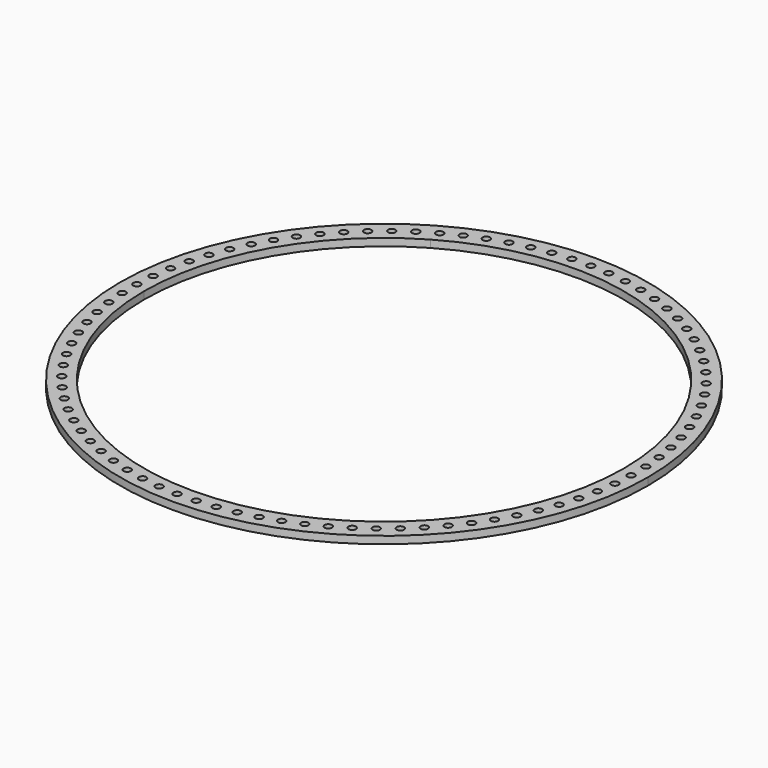
from build123d import *

# Parameters (mm, degrees)
F0_R     = 3
F1_DEPTH = 6


with BuildPart() as f1:
    # F0 (on Top) → F1 (new body)
    with BuildSketch(Plane.XY):
        with BuildLine():
            Line((-101.758, 176.250026), (-106.87925, 185.120291))
            ThreePointArc((-106.87925, 185.120291), (-185.120291, 106.87925), (-213.7585, 0))
            Line((-213.7585, 0), (-194.315, 0))
            ThreePointArc((-194.315, 0), (-168.281726, 97.1575), (-97.1575, 168.281726))
            Line((-97.1575, 168.281726), (-101.758, 176.250026))
        make_face()
        with Locations((-203.742803, 4.588549)):
            Circle(F0_R, mode=Mode.SUBTRACT)
        with Locations((-202.830195, 19.801438)):
            Circle(F0_R, mode=Mode.SUBTRACT)
        with Locations((-200.783277, 34.903588)):
            Circle(F0_R, mode=Mode.SUBTRACT)
        with Locations((-197.613498, 49.810544)):
            Circle(F0_R, mode=Mode.SUBTRACT)
        with Locations((-193.338584, 64.438938)):
            Circle(F0_R, mode=Mode.SUBTRACT)
        with Locations((-187.982442, 78.706965)):
            Circle(F0_R, mode=Mode.SUBTRACT)
        with Locations((-181.575026, 92.534829)):
            Circle(F0_R, mode=Mode.SUBTRACT)
        with Locations((-174.152169, 105.845202)):
            Circle(F0_R, mode=Mode.SUBTRACT)
        with Locations((-165.755382, 118.563645)):
            Circle(F0_R, mode=Mode.SUBTRACT)
        with Locations((-156.431624, 130.619032)):
            Circle(F0_R, mode=Mode.SUBTRACT)
        with Locations((-146.233037, 141.943945)):
            Circle(F0_R, mode=Mode.SUBTRACT)
        with Locations((-135.216656, 152.47505)):
            Circle(F0_R, mode=Mode.SUBTRACT)
        with Locations((-123.444088, 162.153452)):
            Circle(F0_R, mode=Mode.SUBTRACT)
        with BuildLine():
            ThreePointArc((-108.533127, 172.659121), (-108.122488, 171.834935), (-107.981171, 170.925026))
            ThreePointArc((-107.981171, 170.925026), (-110.187559, 168.0319), (-113.561291, 169.394347))
            ThreePointArc((-113.561291, 169.394347), (-112.74697, 173.64458), (-108.533127, 172.659121))
        make_face(mode=Mode.SUBTRACT)
        with BuildLine():
            ThreePointArc((-213.7585, 0), (0, -213.7585), (213.7585, 0))
            ThreePointArc((213.7585, 0), (106.87925, 185.120291), (-106.87925, 185.120291))
            Line((-106.87925, 185.120291), (-101.758, 176.250026))
            Line((-101.758, 176.250026), (-97.1575, 168.281726))
            ThreePointArc((-97.1575, 168.281726), (97.1575, 168.281726), (194.315, 0))
            ThreePointArc((194.315, 0), (0, -194.315), (-194.315, 0))
            Line((-194.315, 0), (-213.7585, 0))
        make_face()
        with Locations((-118.563645, -165.755382)):
            Circle(F0_R, mode=Mode.SUBTRACT)
        with Locations((-162.153452, -123.444088)):
            Circle(F0_R, mode=Mode.SUBTRACT)
        with Locations((-170.925026, -110.981171)):
            Circle(F0_R, mode=Mode.SUBTRACT)
        with Locations((-152.47505, -135.216656)):
            Circle(F0_R, mode=Mode.SUBTRACT)
        with Locations((-141.943945, -146.233037)):
            Circle(F0_R, mode=Mode.SUBTRACT)
        with Locations((-130.619032, -156.431624)):
            Circle(F0_R, mode=Mode.SUBTRACT)
        with Locations((-78.706965, -187.982442)):
            Circle(F0_R, mode=Mode.SUBTRACT)
        with Locations((-64.438938, -193.338584)):
            Circle(F0_R, mode=Mode.SUBTRACT)
        with Locations((-105.845202, -174.152169)):
            Circle(F0_R, mode=Mode.SUBTRACT)
        with Locations((-92.534829, -181.575026)):
            Circle(F0_R, mode=Mode.SUBTRACT)
        with Locations((-34.903588, -200.783277)):
            Circle(F0_R, mode=Mode.SUBTRACT)
        with Locations((-49.810544, -197.613498)):
            Circle(F0_R, mode=Mode.SUBTRACT)
        with Locations((-19.801438, -202.830195)):
            Circle(F0_R, mode=Mode.SUBTRACT)
        with Locations((-4.588549, -203.742803)):
            Circle(F0_R, mode=Mode.SUBTRACT)
        with Locations((-178.740718, -97.897601)):
            Circle(F0_R, mode=Mode.SUBTRACT)
        with Locations((-185.55682, -84.266549)):
            Circle(F0_R, mode=Mode.SUBTRACT)
        with Locations((-191.335213, -70.164244)):
            Circle(F0_R, mode=Mode.SUBTRACT)
        with Locations((-196.043581, -55.669553)):
            Circle(F0_R, mode=Mode.SUBTRACT)
        with Locations((-199.655594, -40.863534)):
            Circle(F0_R, mode=Mode.SUBTRACT)
        with Locations((-202.151052, -25.82899)):
            Circle(F0_R, mode=Mode.SUBTRACT)
        with Locations((-203.516, -10.65)):
            Circle(F0_R, mode=Mode.SUBTRACT)
        with Locations((10.65, -203.516)):
            Circle(F0_R, mode=Mode.SUBTRACT)
        with Locations((25.82899, -202.151052)):
            Circle(F0_R, mode=Mode.SUBTRACT)
        with Locations((40.863534, -199.655594)):
            Circle(F0_R, mode=Mode.SUBTRACT)
        with Locations((55.669553, -196.043581)):
            Circle(F0_R, mode=Mode.SUBTRACT)
        with Locations((70.164244, -191.335213)):
            Circle(F0_R, mode=Mode.SUBTRACT)
        with Locations((84.266549, -185.55682)):
            Circle(F0_R, mode=Mode.SUBTRACT)
        with Locations((97.897601, -178.740718)):
            Circle(F0_R, mode=Mode.SUBTRACT)
        with Locations((110.981171, -170.925026)):
            Circle(F0_R, mode=Mode.SUBTRACT)
        with Locations((123.444088, -162.153452)):
            Circle(F0_R, mode=Mode.SUBTRACT)
        with Locations((135.216656, -152.47505)):
            Circle(F0_R, mode=Mode.SUBTRACT)
        with Locations((146.233037, -141.943945)):
            Circle(F0_R, mode=Mode.SUBTRACT)
        with Locations((156.431624, -130.619032)):
            Circle(F0_R, mode=Mode.SUBTRACT)
        with Locations((165.755382, -118.563645)):
            Circle(F0_R, mode=Mode.SUBTRACT)
        with Locations((174.152169, -105.845202)):
            Circle(F0_R, mode=Mode.SUBTRACT)
        with Locations((181.575026, -92.534829)):
            Circle(F0_R, mode=Mode.SUBTRACT)
        with Locations((187.982442, -78.706965)):
            Circle(F0_R, mode=Mode.SUBTRACT)
        with Locations((193.338584, -64.438938)):
            Circle(F0_R, mode=Mode.SUBTRACT)
        with Locations((197.613498, -49.810544)):
            Circle(F0_R, mode=Mode.SUBTRACT)
        with Locations((200.783277, -34.903588)):
            Circle(F0_R, mode=Mode.SUBTRACT)
        with Locations((202.830195, -19.801438)):
            Circle(F0_R, mode=Mode.SUBTRACT)
        with Locations((203.742803, -4.588549)):
            Circle(F0_R, mode=Mode.SUBTRACT)
        with Locations((-97.897601, 178.740718)):
            Circle(F0_R, mode=Mode.SUBTRACT)
        with Locations((-84.266549, 185.55682)):
            Circle(F0_R, mode=Mode.SUBTRACT)
        with Locations((-70.164244, 191.335213)):
            Circle(F0_R, mode=Mode.SUBTRACT)
        with Locations((-55.669553, 196.043581)):
            Circle(F0_R, mode=Mode.SUBTRACT)
        with Locations((-40.863534, 199.655594)):
            Circle(F0_R, mode=Mode.SUBTRACT)
        with Locations((-25.82899, 202.151052)):
            Circle(F0_R, mode=Mode.SUBTRACT)
        with Locations((-10.65, 203.516)):
            Circle(F0_R, mode=Mode.SUBTRACT)
        with Locations((203.516, 10.65)):
            Circle(F0_R, mode=Mode.SUBTRACT)
        with Locations((202.151052, 25.82899)):
            Circle(F0_R, mode=Mode.SUBTRACT)
        with Locations((199.655594, 40.863534)):
            Circle(F0_R, mode=Mode.SUBTRACT)
        with Locations((196.043581, 55.669553)):
            Circle(F0_R, mode=Mode.SUBTRACT)
        with Locations((191.335213, 70.164244)):
            Circle(F0_R, mode=Mode.SUBTRACT)
        with Locations((185.55682, 84.266549)):
            Circle(F0_R, mode=Mode.SUBTRACT)
        with Locations((178.740718, 97.897601)):
            Circle(F0_R, mode=Mode.SUBTRACT)
        with Locations((4.588549, 203.742803)):
            Circle(F0_R, mode=Mode.SUBTRACT)
        with Locations((19.801438, 202.830195)):
            Circle(F0_R, mode=Mode.SUBTRACT)
        with Locations((49.810544, 197.613498)):
            Circle(F0_R, mode=Mode.SUBTRACT)
        with Locations((34.903588, 200.783277)):
            Circle(F0_R, mode=Mode.SUBTRACT)
        with Locations((92.534829, 181.575026)):
            Circle(F0_R, mode=Mode.SUBTRACT)
        with Locations((105.845202, 174.152169)):
            Circle(F0_R, mode=Mode.SUBTRACT)
        with Locations((64.438938, 193.338584)):
            Circle(F0_R, mode=Mode.SUBTRACT)
        with Locations((78.706965, 187.982442)):
            Circle(F0_R, mode=Mode.SUBTRACT)
        with Locations((130.619032, 156.431624)):
            Circle(F0_R, mode=Mode.SUBTRACT)
        with Locations((141.943945, 146.233037)):
            Circle(F0_R, mode=Mode.SUBTRACT)
        with Locations((152.47505, 135.216656)):
            Circle(F0_R, mode=Mode.SUBTRACT)
        with Locations((170.925026, 110.981171)):
            Circle(F0_R, mode=Mode.SUBTRACT)
        with Locations((162.153452, 123.444088)):
            Circle(F0_R, mode=Mode.SUBTRACT)
        with Locations((118.563645, 165.755382)):
            Circle(F0_R, mode=Mode.SUBTRACT)
    extrude(amount=F1_DEPTH)


solid = f1.part
